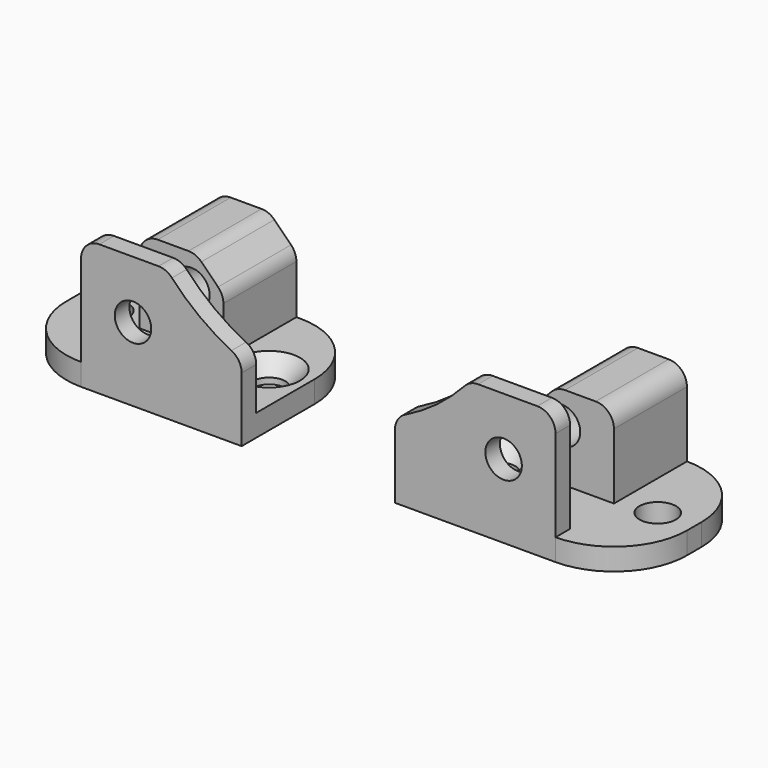
from build123d import *

# Parameters (mm, degrees)
F3_R            = 5
F6_DEPTH        = 5
F7_DEPTH        = 40
F4_R            = 5
F8_DEPTH        = 25
F9_R            = 5
F10_R           = 20
F11_D           = 9
F11_DEPTH       = 8
F11_CSINK_D     = 17
F11_CSINK_ANGLE = 85.294
F12_D           = 10
F12_DEPTH       = 8


with BuildPart() as f6:
    # F3 (on Front) → F6 (new body)
    with BuildSketch(Plane.XZ):
        Polygon((-44, 0), (0, 0), (20, 0), (20, 6), (0, 6), (-44, 6), align=None)
        with BuildLine():
            Line((-44, 20.876389), (-44, 6))
            Line((-44, 6), (0, 6))
            Line((0, 6), (0, 36))
            Line((0, 36), (-23.491072, 36))
            ThreePointArc((-23.491072, 36), (-32.857591, 27.234064), (-44, 20.876389))
        make_face()
        with Locations((-14.234758, 20.234758)):
            Circle(F3_R, mode=Mode.SUBTRACT)
    extrude(amount=F6_DEPTH)

    # F3 (on Front) → F7 (join)
    with BuildSketch(Plane.XZ):
        Polygon((-44, 0), (0, 0), (20, 0), (20, 6), (0, 6), (-44, 6), align=None)
    extrude(amount=-F7_DEPTH)

    # F4 (on offset) → F8 (join)
    with BuildSketch(Plane.XZ.offset(-15)):
        Polygon((-23, 6), (0, 6), (0, 29), (-15.5, 29), (-23, 21.5), align=None)
        with Locations((-14.234758, 20.234758)):
            Circle(F4_R, mode=Mode.SUBTRACT)
    extrude(amount=-F8_DEPTH)

    # F9
    f9_edges = [f6.edges().sort_by_distance(p)[0] for p in [
        (-15.5, 27.5, 29),
        (-23, 27.5, 21.5),
        (0, 27.5, 29),
        (-23.491072, -2.5, 36),
        (-44, -2.5, 20.876389),
        (0, -2.5, 36),
    ]]
    fillet(f9_edges, radius=F9_R)

    # F10
    f10_edges = [f6.edges().sort_by_distance(p)[0] for p in [
        (20, -5, 3),
        (20, 40, 3),
        (-44, 40, 3),
    ]]
    fillet(f10_edges, radius=F10_R)

    # F11
    with Locations(Plane.XY.offset(6)):
        with Locations((-33.5, 17.5)):
            CounterSinkHole(F11_D / 2, F11_CSINK_D / 2, depth=F11_DEPTH, counter_sink_angle=F11_CSINK_ANGLE)

    # F12
    with Locations(Plane.XY.offset(6)):
        with Locations((10, 17.5)):
            Hole(F12_D / 2, depth=F12_DEPTH)


with BuildPart() as f14_1:
    # F14: instance of F6
    add(f6.part.mirror(Plane.YZ.offset(-65)))


solid = Compound([f6.part, f14_1.part])
